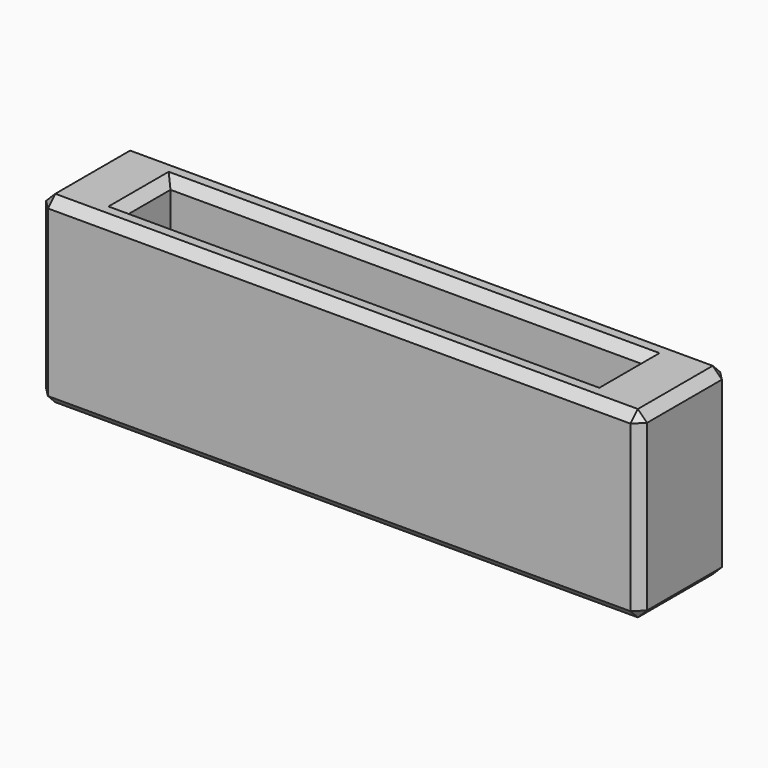
from build123d import *

# Parameters (mm, degrees)
SKETCH_W     = 65.5
SKETCH_H     = 12.2
PAD_DEPTH    = 20
SKETCH001_W  = 51.5
SKETCH001_H  = 6.2
POCKET_DEPTH = 20
CHAMFER_SIZE = 1


with BuildPart() as part:
    # Sketch → Pad (new body)
    with BuildSketch(Plane.XY):
        Rectangle(SKETCH_W, SKETCH_H)
    extrude(amount=PAD_DEPTH)

    # Sketch001 (on Face6 of Pad) → Pocket (cut)
    with BuildSketch(Plane.XY.offset(20)):
        Rectangle(SKETCH001_W, SKETCH001_H)
    extrude(amount=-POCKET_DEPTH, mode=Mode.SUBTRACT)

    # Chamfer
    chamfer_edges = [part.edges().sort_by_distance(p)[0] for p in [
        (32.75, -6.1, 10),
        (-32.75, -6.1, 10),
        (0, -6.1, 0),
        (0, -6.1, 20),
        (-32.75, 6.1, 10),
        (32.75, 6.1, 10),
        (0, 6.1, 0),
        (0, 6.1, 20),
        (32.75, 0, 20),
        (32.75, 0, 0),
        (-32.75, 0, 0),
        (-32.75, 0, 20),
        (-25.75, 0, 20),
        (0, -3.1, 20),
        (25.75, 0, 20),
        (0, 3.1, 20),
        (-25.75, 0, 0),
        (0, -3.1, 0),
        (25.75, 0, 0),
        (0, 3.1, 0),
    ]]
    chamfer(chamfer_edges, length=CHAMFER_SIZE)


solid = part.part
